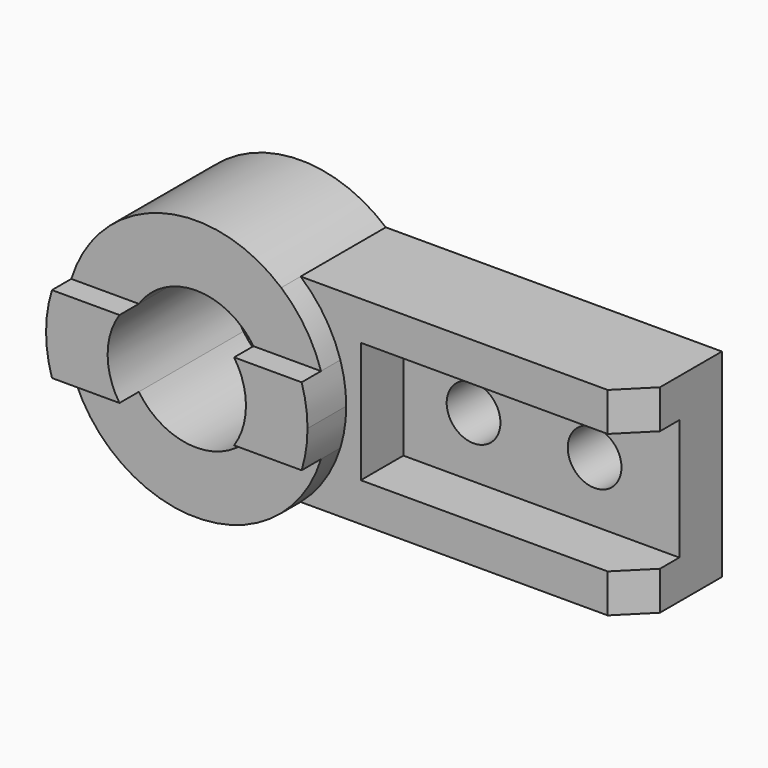
from build123d import *

# Parameters (mm, degrees)
F1_DEPTH = 44
F0_R     = 11.1
F2_DEPTH = 22
F3_DEPTH = 64
F4_DEPTH = 54
F5_SIZE  = 12


with BuildPart() as f1:
    # F0 (on Front) → F1 (new body)
    with BuildSketch(Plane.XZ):
        with BuildLine():
            ThreePointArc((35.142567, 41), (45.124741, 29.660711), (51.575188, 16))
            ThreePointArc((51.575188, 16), (53.390356, 8.091349), (54, 0))
            ThreePointArc((54, 0), (53.390356, -8.091349), (51.575188, -16))
            ThreePointArc((51.575188, -16), (45.124741, -29.660711), (35.142567, -41))
            Line((35.142567, -41), (174, -41))
            Line((174, -41), (174, -25))
            Line((174, -25), (60, -25))
            Line((60, -25), (60, 25))
            Line((60, 25), (174, 25))
            Line((174, 25), (174, 41))
            Line((174, 41), (35.142567, 41))
        make_face()
    extrude(amount=F1_DEPTH)

    # F0 (on Front) → F2 (join)
    with BuildSketch(Plane.XZ):
        Polygon((174, 0), (174, 25), (60, 25), (60, -25), (174, -25), align=None)
        with Locations((89, 0)):
            Circle(F0_R, mode=Mode.SUBTRACT)
        with Locations((139, 0)):
            Circle(F0_R, mode=Mode.SUBTRACT)
    extrude(amount=F2_DEPTH)

    # F0 (on Front) → F3 (join)
    with BuildSketch(Plane.XZ):
        with BuildLine():
            ThreePointArc((-23.675528, -16), (-28.575, 0), (-23.675528, 16))
            Line((-23.675528, 16), (-51.575188, 16))
            ThreePointArc((-51.575188, 16), (-54, 0), (-51.575188, -16))
            Line((-51.575188, -16), (-23.675528, -16))
        make_face()
        with BuildLine():
            ThreePointArc((23.675528, 16), (27.322691, 8.366672), (28.575, 0))
            ThreePointArc((28.575, 0), (27.322691, -8.366672), (23.675528, -16))
            Line((23.675528, -16), (51.575188, -16))
            ThreePointArc((51.575188, -16), (53.390356, -8.091349), (54, 0))
            ThreePointArc((54, 0), (53.390356, 8.091349), (51.575188, 16))
            Line((51.575188, 16), (23.675528, 16))
        make_face()
    extrude(amount=F3_DEPTH)

    # F0 (on Front) → F4 (join)
    with BuildSketch(Plane.XZ):
        with BuildLine():
            ThreePointArc((-23.675528, 16), (0, 28.575), (23.675528, 16))
            Line((23.675528, 16), (51.575188, 16))
            ThreePointArc((51.575188, 16), (45.124741, 29.660711), (35.142567, 41))
            ThreePointArc((35.142567, 41), (-14.958535, 51.886821), (-51.575188, 16))
            Line((-51.575188, 16), (-23.675528, 16))
        make_face()
        with BuildLine():
            Line((51.575188, -16), (23.675528, -16))
            ThreePointArc((23.675528, -16), (0, -28.575), (-23.675528, -16))
            Line((-23.675528, -16), (-51.575188, -16))
            ThreePointArc((-51.575188, -16), (-14.958535, -51.886821), (35.142567, -41))
            ThreePointArc((35.142567, -41), (45.124741, -29.660711), (51.575188, -16))
        make_face()
    extrude(amount=F4_DEPTH)

    # F5
    f5_edges = [f1.edges().sort_by_distance(p)[0] for p in [
        (174, -44, -33),
        (174, -44, 33),
    ]]
    chamfer(f5_edges, length=F5_SIZE)


solid = f1.part
